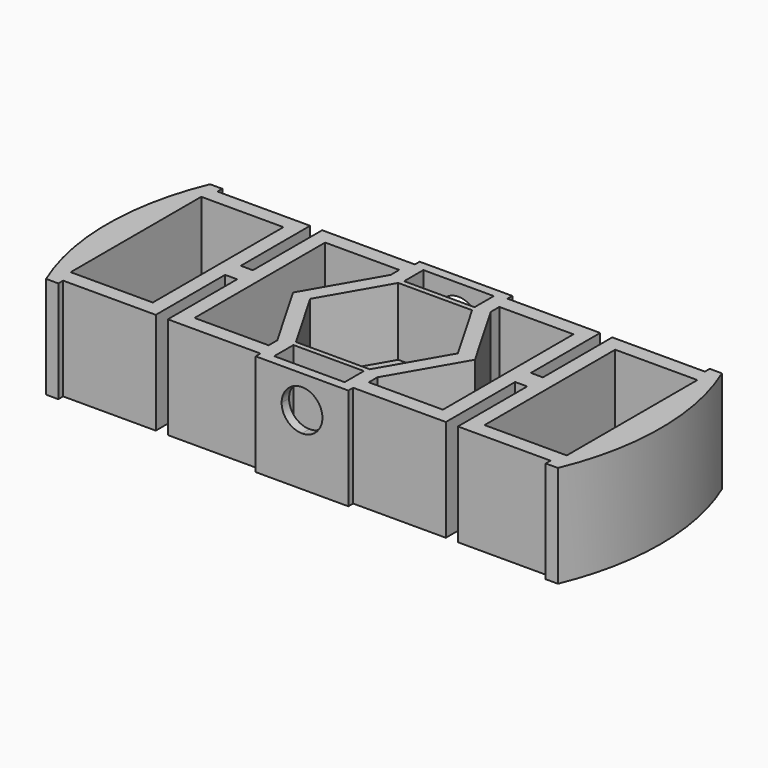
from build123d import *

# Parameters (mm, degrees)
F1_DEPTH  = 9.525
F3_DEPTH  = 6.35
F4_W      = 9.652
F4_H      = 3.302
F5_DEPTH  = 5.588
F7_DEPTH  = 4.826
F9_DEPTH  = 4.699
F11_DEPTH = 1.778
F16_W     = 80.8186978102
F16_H     = 32.7942222357
F17_DEPTH = 5.08
F18_W     = 11.260668817
F18_H     = 22.375507099
F19_DEPTH = 12.7


with BuildPart() as f1:
    # F0 (on Top) → F1 (new body)
    with BuildSketch(Plane.XY):
        with BuildLine():
            Line((-33.401, 14.0452535495), (-35.0732901119, 14.0452535495))
            ThreePointArc((-35.0732901119, 14.0452535495), (-37.1933629546, 7.1643777434), (-37.9095, 0))
            Line((-37.9095, 0), (0, 0))
            Line((0, 0), (0, 14.0452535495))
            Line((0, 14.0452535495), (-6.35, 14.0452535495))
            Line((-6.35, 14.0452535495), (-6.35, 13.2197535495))
            Line((-6.35, 13.2197535495), (-19.05, 13.2197535495))
            Line((-19.05, 13.2197535495), (-19.05, 1.3452535495))
            Line((-19.05, 1.3452535495), (-20.701, 1.3452535495))
            Line((-20.701, 1.3452535495), (-20.701, 13.2197535495))
            Line((-20.701, 13.2197535495), (-33.401, 13.2197535495))
            Line((-33.401, 13.2197535495), (-33.401, 14.0452535495))
        make_face()
    extrude(amount=F1_DEPTH)

    # F2 (on face) → F3 (cut)
    with BuildSketch(Plane.XY.offset(9.525)):
        Polygon((5.1326438931, -8.89), (10.2652877862, 0), (5.1326438931, 8.89), (0, 8.89), (0, 0), (-10.2652877862, 0), (-5.1326438931, -8.89), align=None)
    extrude(amount=-F3_DEPTH, mode=Mode.SUBTRACT)

    # F4 (on face) → F5 (cut)
    with BuildSketch(Plane.XY.offset(9.525)):
        with Locations((0, -11.1242535495)):
            Rectangle(F4_W, F4_H)
        with Locations((0, 11.1242535495)):
            Rectangle(F4_W, F4_H)
    extrude(amount=-F5_DEPTH, mode=Mode.SUBTRACT)

    # F6 (on face) → F7 (cut)
    with BuildSketch(Plane.XY.offset(9.525)):
        Polygon((-5.0593204089, -8.763), (5.0593204089, -8.763), (10.1186408178, 0), (5.0593204089, 8.763), (-5.0593204089, 8.763), (-10.1186408178, 0), align=None)
    extrude(amount=-F7_DEPTH, mode=Mode.SUBTRACT)

    # F8 (on face) → F9 (cut, through all)
    with BuildSketch(Plane.XY.offset(4.699)):
        with BuildLine():
            Line((0, 0), (0, 5.588))
            ThreePointArc((0, 5.588), (-3.9513126933, 3.9513126933), (-5.588, 0))
            Line((-5.588, 0), (0, 0))
        make_face()
    extrude(amount=-F9_DEPTH, mode=Mode.SUBTRACT)

    # F10 (on face) → F11 (cut)
    with BuildSketch(Plane(origin=(0, 14.0452535495, 0), x_dir=(-1, 0, 0), z_dir=(0, 1, 0))):
        with BuildLine():
            Line((0, 9.525), (2.794, 9.525))
            ThreePointArc((2.794, 9.525), (-1.9756563466, 11.5006563466), (0, 6.731))
            Line((0, 6.731), (0, 9.525))
        make_face()
        with BuildLine():
            ThreePointArc((0, 6.731), (1.9756563466, 7.5493436534), (2.794, 9.525))
            Line((2.794, 9.525), (0, 9.525))
            Line((0, 9.525), (0, 6.731))
        make_face()
    extrude(amount=-F11_DEPTH, mode=Mode.SUBTRACT)

    # F12: F1 across plane


with BuildPart() as f1_1:
    add(f1.part)
    add(f1.part.mirror(Plane.XZ))

    # F13: F1 across plane


with BuildPart() as f1_2:
    add(f1_1.part)
    add(f1_1.part.mirror(Plane.YZ))

    # F15: F1 across plane


with BuildPart() as f1_3:
    add(f1_2.part)
    add(f1_2.part.mirror(Plane.XY.offset(9.525)))

    # F16 (on face) → F17 (cut)
    with BuildSketch(Plane.XY.offset(19.05)):
        Rectangle(F16_W, F16_H)
    extrude(amount=-F17_DEPTH, mode=Mode.SUBTRACT)

    # F18 (on face) → F19 (cut)
    with BuildSketch(Plane.XY.offset(13.97)):
        with Locations((-28.3633344085, 0)):
            Rectangle(F18_W, F18_H)
        Polygon((-6.858, 11.1877535495), (-17.018, 11.1877535495), (-17.018, -11.1877535495), (-6.858, -11.1877535495), (-6.858, -9.7115955617), (-12.4649923118, 0), (-6.858, 9.7115955617), align=None)
        Polygon((17.018, 11.1877535495), (6.858, 11.1877535495), (6.858, 9.7115955617), (12.4649923118, 0), (6.858, -9.7115955617), (6.858, -11.1877535495), (17.018, -11.1877535495), align=None)
        with Locations((28.3633344085, 0)):
            Rectangle(F18_W, F18_H)
    extrude(amount=-F19_DEPTH, mode=Mode.SUBTRACT)

    # F20: F1 across plane


with BuildPart() as f1_4:
    add(f1_3.part)
    add(f1_3.part.mirror(Plane.XZ))


solid = f1_4.part
